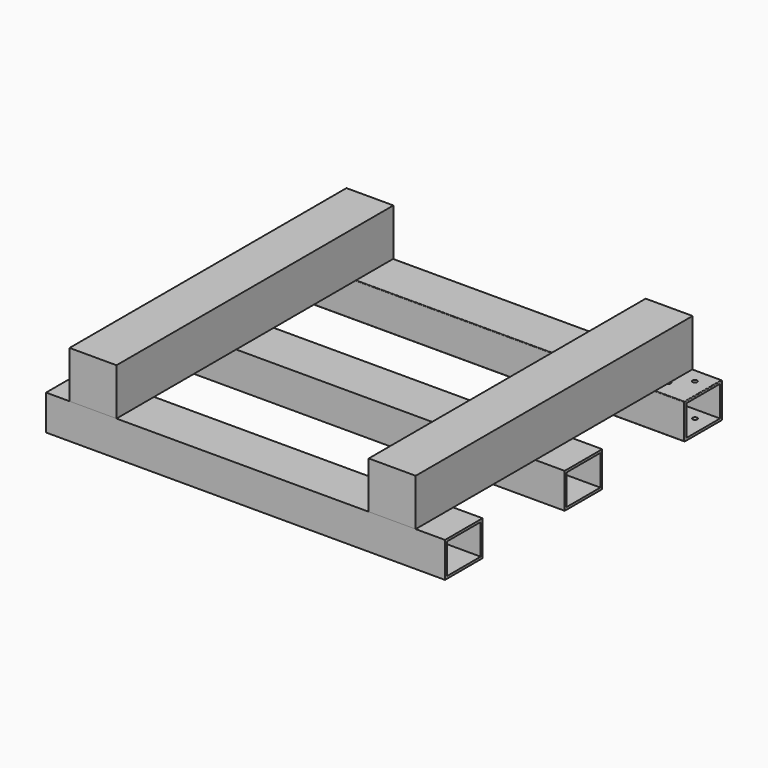
from build123d import *

# Parameters (mm, degrees)
F0_W      = 80
F0_H      = 60
F2_DEPTH  = 680
F1_W      = 72
F1_H      = 52
F3_DEPTH  = 680.001
F4_R      = 1
F5_R      = 4
F6_DEPTH  = 254
F7_W      = 680
F7_H      = 80
F8_DEPTH  = 30
F9_W      = 72
F9_H      = 52
F10_DEPTH = 680.001
F11_W     = 680
F11_H     = 80
F12_DEPTH = 30
F13_W     = 72
F13_H     = 52
F14_DEPTH = 680.001
F15_W     = 80
F15_H     = 590
F16_DEPTH = 80


with BuildPart() as f2:
    # F0 (on Right) → F2 (new body)
    with BuildSketch(Plane.YZ):
        Rectangle(F0_W, F0_H)
    extrude(amount=F2_DEPTH)

    # F1 (on Right) → F3 (cut, through all)
    with BuildSketch(Plane.YZ):
        Rectangle(F1_W, F1_H)
    extrude(amount=F3_DEPTH, mode=Mode.SUBTRACT)

    # F4
    f4_edges = [f2.edges().sort_by_distance(p)[0] for p in [
        (340, -40, 30),
        (340, -40, -30),
        (0, -40, 0),
        (680, -40, 0),
        (340, 40, 30),
        (0, 0, 30),
        (680, 0, 30),
        (340, 40, -30),
    ]]
    fillet(f4_edges, radius=F4_R)

    # F5 (on face) → F6 (cut)
    with BuildSketch(Plane.XY.offset(30)):
        with Locations((25, 15)):
            Circle(F5_R)
        with Locations((50, -10)):
            Circle(F5_R)
        with Locations((654, 15)):
            Circle(F5_R)
        with Locations((629, -10)):
            Circle(F5_R)
    extrude(amount=-F6_DEPTH, mode=Mode.SUBTRACT)


with BuildPart() as f8:
    # F7 (on Top) → F8 (new body, symmetric)
    with BuildSketch(Plane.XY):
        with Locations((340, -510)):
            Rectangle(F7_W, F7_H)
    extrude(amount=F8_DEPTH, both=True)

    # F9 (on face) → F10 (cut, through all)
    with BuildSketch(Plane(origin=(0, 0, 0), x_dir=(0, -1, 0), z_dir=(-1, 0, 0))):
        with Locations((510, 0)):
            Rectangle(F9_W, F9_H)
    extrude(amount=-F10_DEPTH, mode=Mode.SUBTRACT)


with BuildPart() as f12:
    # F11 (on Top) → F12 (new body, symmetric)
    with BuildSketch(Plane.XY):
        with Locations((340, -255)):
            Rectangle(F11_W, F11_H)
    extrude(amount=F12_DEPTH, both=True)

    # F13 (on face) → F14 (cut, through all)
    with BuildSketch(Plane(origin=(0, 0, 0), x_dir=(0, -1, 0), z_dir=(-1, 0, 0))):
        with Locations((255, 0)):
            Rectangle(F13_W, F13_H)
    extrude(amount=-F14_DEPTH, mode=Mode.SUBTRACT)


with BuildPart() as f16:
    # F15 (on face) → F16 (new body)
    with BuildSketch(Plane.XY.offset(30)):
        with Locations((80, -255)):
            Rectangle(F15_W, F15_H)
        with Locations((590, -255)):
            Rectangle(F15_W, F15_H)
    extrude(amount=F16_DEPTH)


solid = Compound([f2.part, f8.part, f12.part, f16.part])
